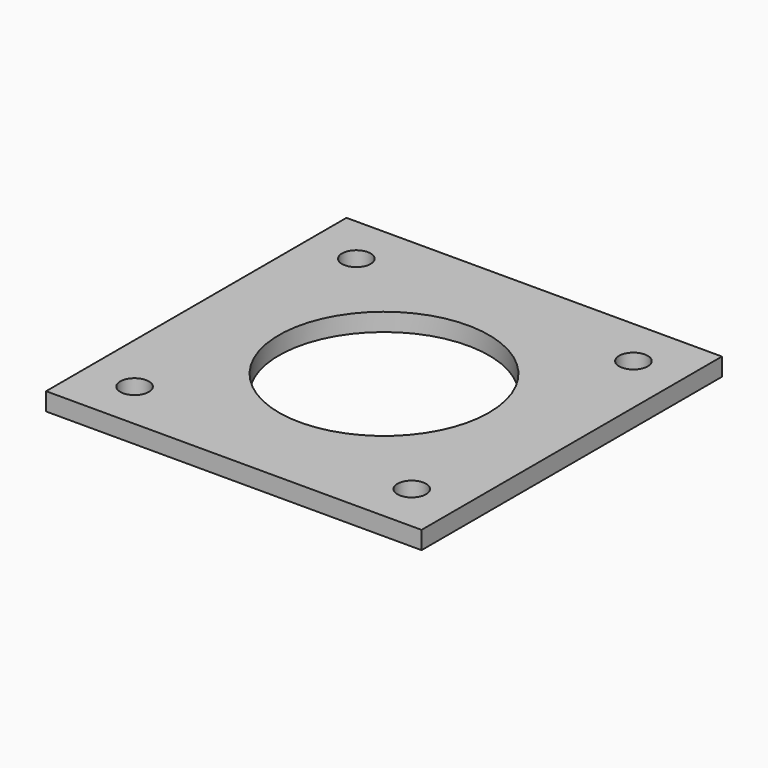
from build123d import *

# Parameters (mm, degrees)
F0_W     = 42
F0_H     = 42
F0_R     = 1.6
F0_R_2   = 11.75
F1_DEPTH = 2


with BuildPart() as f1:
    # F0 (on Top) → F1 (new body)
    with BuildSketch(Plane.XY):
        with Locations((-10.983409, 3.555823)):
            Rectangle(F0_W, F0_H)
        with Locations((-26.483409, -11.944177)):
            Circle(F0_R, mode=Mode.SUBTRACT)
        with Locations((-10.983409, 3.555823)):
            Circle(F0_R_2, mode=Mode.SUBTRACT)
        with Locations((4.516591, -11.944177)):
            Circle(F0_R, mode=Mode.SUBTRACT)
        with Locations((-26.483409, 19.055823)):
            Circle(F0_R, mode=Mode.SUBTRACT)
        with Locations((4.516591, 19.055823)):
            Circle(F0_R, mode=Mode.SUBTRACT)
    extrude(amount=F1_DEPTH)


solid = f1.part
